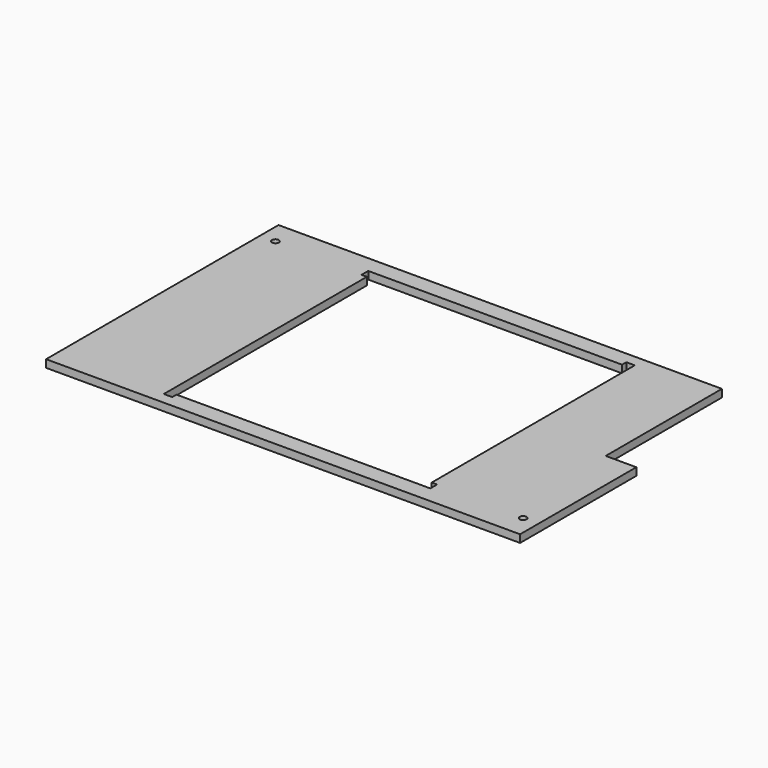
from build123d import *

# Parameters (mm, degrees)
F0_R     = 2.25
F1_DEPTH = 5


with BuildPart() as f1:
    # F0 (on Top) → F1 (new body)
    with BuildSketch(Plane.XY):
        Polygon((-155, -95), (155, -95), (155, 0), (135, 0), (135, 95), (-155, 95), align=None)
        with Locations((145, -80)):
            Circle(F0_R, mode=Mode.SUBTRACT)
        Polygon((87.5, -84), (84, -84), (-78.5, -84), (-78.5, -87.5), (-84, -87.5), (-84, -84), (-84, 78.5), (-87.5, 78.5), (-87.5, 84), (-84, 84), (78.5, 84), (78.5, 87.5), (84, 87.5), (84, 84), (84, -78.5), (87.5, -78.5), align=None, mode=Mode.SUBTRACT)
        with Locations((-145, 80)):
            Circle(F0_R, mode=Mode.SUBTRACT)
    extrude(amount=F1_DEPTH)


solid = f1.part
